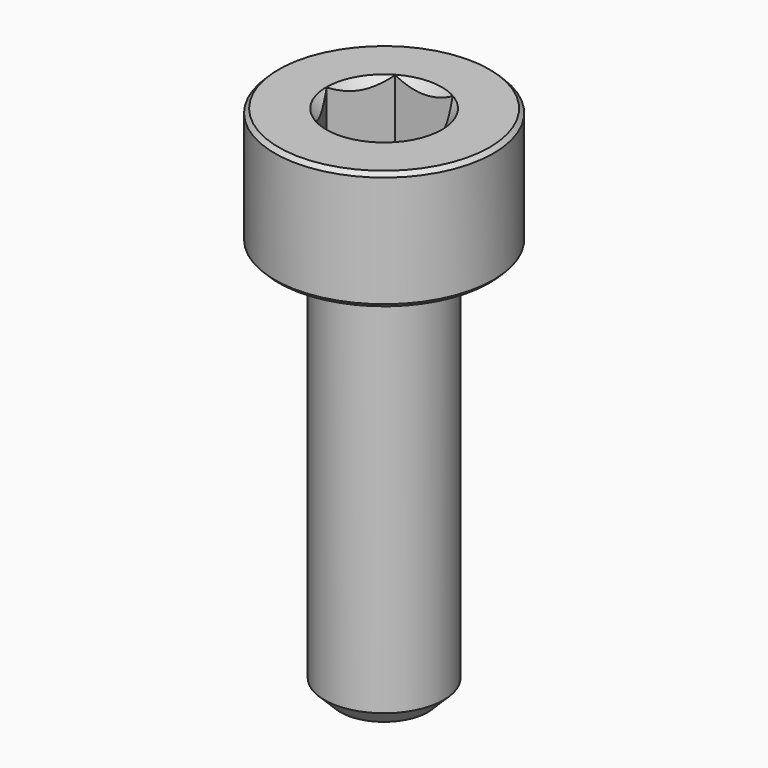
from build123d import *

# Parameters (mm, degrees)
SKETCH034_R     = 3.75
POCKET013_DEPTH = 9.70192
CHAMFER013_SIZE = 0.4
CHAMFER014_SIZE = 0.1


with BuildPart() as pocket013:
    # Sketch035 → Revolution005 (revolve)
    with BuildSketch(Plane.XZ):
        Polygon((0, 0.29908), (2.75, 1.3), (2.75, 10), (0, 10), align=None)
    revolve(axis=Axis((0, 0, 0), (0, 0, 1)))

    # Sketch034 (on Face3 of Revolution005) → Pocket013 (cut, through all)
    with BuildSketch(Plane(origin=(0, 0, 10), x_dir=(-1, 0, 0), z_dir=(0, 0, 1))):
        Circle(SKETCH034_R)
        Polygon((-0.721688, 1.25), (0.721688, 1.25), (1.443376, 0), (0.721688, -1.25), (-0.721688, -1.25), (-1.443376, 0), align=None, mode=Mode.SUBTRACT)
    extrude(amount=-POCKET013_DEPTH, mode=Mode.SUBTRACT)


with BuildPart() as chamfer014:
    # Sketch033 → Revolution004 (revolve)
    with BuildSketch(Plane.XZ):
        Polygon((1.45, 3), (2.75, 3), (2.75, 0), (1.5, 0), (1.5, -10), (0, -10), (0, 1.549999), align=None)
    revolve(axis=Axis((0, 0, 0), (0, 0, 1)))

    # Cut005: cut Pocket013
    add(pocket013.part, mode=Mode.SUBTRACT)

    # Chamfer013
    chamfer013_edges = [chamfer014.edges().sort_by_distance(p)[0] for p in [
        (-1.5, 0, -10),
    ]]
    chamfer(chamfer013_edges, length=CHAMFER013_SIZE)

    # Chamfer014
    chamfer014_edges = [chamfer014.edges().sort_by_distance(p)[0] for p in [
        (-2.75, 0, 0),
        (-2.75, 0, 3),
    ]]
    chamfer(chamfer014_edges, length=CHAMFER014_SIZE)


solid = chamfer014.part
